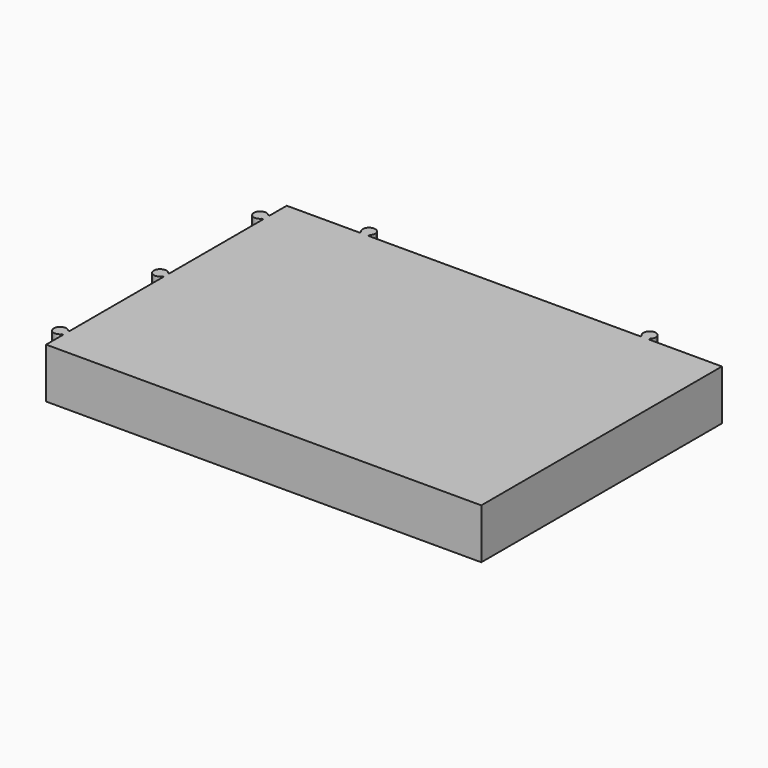
from build123d import *

# Parameters (mm, degrees)
F1_DEPTH = 9.144


with BuildPart() as f1:
    # F0 (on Top) → F1 (new body)
    with BuildSketch(Plane.XY):
        Polygon((-26.368883, 27.432), (-39.6875, 27.432), (-39.6875, 23.564372), (-39.6875, 22.8092), (-39.6875, 22.054028), (-39.6875, 0.623446), (-39.6875, 0), (-39.6875, -0.623446), (-39.6875, -22.054028), (-39.6875, -22.8092), (-39.6875, -23.564372), (-39.6875, -27.432), (39.6875, -27.432), (39.6875, 27.432), (26.368883, 27.432), (25.5905, 27.432), (24.812117, 27.432), (-24.812117, 27.432), (-25.5905, 27.432), align=None)
        with BuildLine():
            Line((-26.368883, 27.738), (-26.368883, 27.432))
            Line((-26.368883, 27.432), (-25.5905, 27.432))
            ThreePointArc((-25.5905, 27.432), (-26.008685, 27.511247), (-26.368883, 27.738))
        make_face()
        with BuildLine():
            ThreePointArc((-39.8725, -0.623446), (-39.734726, -0.325158), (-39.6875, 0))
            ThreePointArc((-39.6875, 0), (-39.734726, 0.325158), (-39.8725, 0.623446))
            ThreePointArc((-39.8725, 0.623446), (-41.9735, 0), (-39.8725, -0.623446))
        make_face()
        with BuildLine():
            ThreePointArc((-39.9725, -23.564372), (-39.761121, -23.212781), (-39.6875, -22.8092))
            ThreePointArc((-39.6875, -22.8092), (-39.761121, -22.405619), (-39.9725, -22.054028))
            ThreePointArc((-39.9725, -22.054028), (-41.9735, -22.8092), (-39.9725, -23.564372))
        make_face()
        with BuildLine():
            ThreePointArc((24.812117, 27.738), (25.172315, 27.511247), (25.5905, 27.432))
            ThreePointArc((25.5905, 27.432), (26.008685, 27.511247), (26.368883, 27.738))
            ThreePointArc((26.368883, 27.738), (26.638389, 28.118515), (26.7335, 28.575))
            ThreePointArc((26.7335, 28.575), (25.134015, 29.622889), (24.812117, 27.738))
        make_face()
        with BuildLine():
            ThreePointArc((-24.812117, 27.738), (-25.172315, 27.511247), (-25.5905, 27.432))
            Line((-25.5905, 27.432), (-24.812117, 27.432))
            Line((-24.812117, 27.432), (-24.812117, 27.738))
        make_face()
        with BuildLine():
            ThreePointArc((-26.368883, 27.738), (-26.008685, 27.511247), (-25.5905, 27.432))
            ThreePointArc((-25.5905, 27.432), (-25.172315, 27.511247), (-24.812117, 27.738))
            ThreePointArc((-24.812117, 27.738), (-24.542611, 28.118515), (-24.4475, 28.575))
            ThreePointArc((-24.4475, 28.575), (-26.046985, 29.622889), (-26.368883, 27.738))
        make_face()
        with BuildLine():
            Line((-39.6875, 22.8092), (-39.6875, 23.564372))
            Line((-39.6875, 23.564372), (-39.9725, 23.564372))
            ThreePointArc((-39.9725, 23.564372), (-39.761121, 23.212781), (-39.6875, 22.8092))
        make_face()
        with BuildLine():
            Line((24.812117, 27.738), (24.812117, 27.432))
            Line((24.812117, 27.432), (25.5905, 27.432))
            ThreePointArc((25.5905, 27.432), (25.172315, 27.511247), (24.812117, 27.738))
        make_face()
        with BuildLine():
            ThreePointArc((26.368883, 27.738), (26.008685, 27.511247), (25.5905, 27.432))
            Line((25.5905, 27.432), (26.368883, 27.432))
            Line((26.368883, 27.432), (26.368883, 27.738))
        make_face()
        with BuildLine():
            Line((-39.6875, -22.8092), (-39.6875, -22.054028))
            Line((-39.6875, -22.054028), (-39.9725, -22.054028))
            ThreePointArc((-39.9725, -22.054028), (-39.761121, -22.405619), (-39.6875, -22.8092))
        make_face()
        with BuildLine():
            Line((-39.6875, -23.564372), (-39.6875, -22.8092))
            ThreePointArc((-39.6875, -22.8092), (-39.761121, -23.212781), (-39.9725, -23.564372))
            Line((-39.9725, -23.564372), (-39.6875, -23.564372))
        make_face()
        with BuildLine():
            ThreePointArc((-39.9725, 22.054028), (-39.761121, 22.405619), (-39.6875, 22.8092))
            ThreePointArc((-39.6875, 22.8092), (-39.761121, 23.212781), (-39.9725, 23.564372))
            ThreePointArc((-39.9725, 23.564372), (-41.9735, 22.8092), (-39.9725, 22.054028))
        make_face()
        with BuildLine():
            Line((-39.6875, -0.623446), (-39.6875, 0))
            ThreePointArc((-39.6875, 0), (-39.734726, -0.325158), (-39.8725, -0.623446))
            Line((-39.8725, -0.623446), (-39.6875, -0.623446))
        make_face()
        with BuildLine():
            Line((-39.6875, 22.054028), (-39.6875, 22.8092))
            ThreePointArc((-39.6875, 22.8092), (-39.761121, 22.405619), (-39.9725, 22.054028))
            Line((-39.9725, 22.054028), (-39.6875, 22.054028))
        make_face()
        with BuildLine():
            Line((-39.6875, 0), (-39.6875, 0.623446))
            Line((-39.6875, 0.623446), (-39.8725, 0.623446))
            ThreePointArc((-39.8725, 0.623446), (-39.734726, 0.325158), (-39.6875, 0))
        make_face()
    extrude(amount=F1_DEPTH)


solid = f1.part
